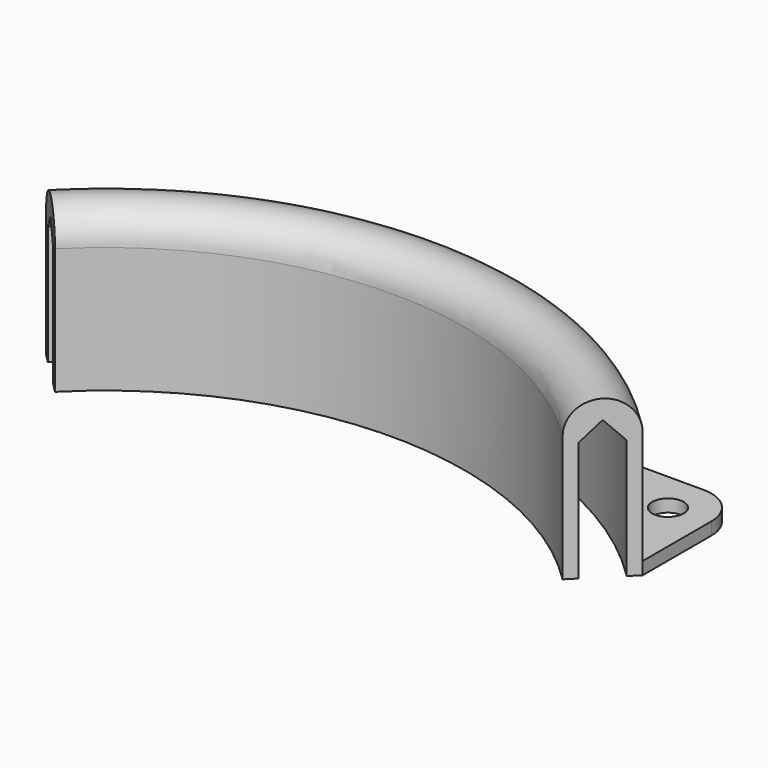
from build123d import *

# Parameters (mm, degrees)
F1_ANGLE_BACK = 45
F1_ANGLE      = 90
F2_R          = 2.5
F3_DEPTH      = 2
F4_R          = 6


with BuildPart() as f1:
    # F0 (on Right) → F1 (revolve)
    with BuildSketch(Plane.YZ, mode=Mode.PRIVATE) as f1_sk:
        with BuildLine():
            Line((65, 19), (65, 0))
            Line((65, 0), (67, 0))
            Line((67, 0), (67, 20))
            ThreePointArc((67, 20), (62, 25), (57, 20))
            Line((57, 20), (57, 0))
            Line((57, 0), (59, 0))
            Line((59, 0), (59, 19))
            Line((59, 19), (62, 22))
            Line((62, 22), (65, 19))
        make_face()
    revolve(f1_sk.sketch.rotate(Axis((0, 0, 11), (0, 0, 1)), -F1_ANGLE_BACK), axis=Axis((0, 0, 11), (0, 0, 1)), revolution_arc=F1_ANGLE)

    # F2 (on face) → F3 (join)
    with BuildSketch(Plane(origin=(0, 0, 0), x_dir=(1, 0, 0), z_dir=(0, 0, -1))):
        with BuildLine():
            ThreePointArc((0, -67), (-25.6397899685, -61.8999286783), (-47.3761543395, -47.3761543395))
            Line((-47.3761543395, -47.3761543395), (-47.3761543395, -67))
            Line((-47.3761543395, -67), (0, -67))
        make_face()
        with Locations((-40.8761543395, -60.5)):
            Circle(F2_R, mode=Mode.SUBTRACT)
        with BuildLine():
            ThreePointArc((47.3761543395, -47.3761543395), (25.6397899685, -61.8999286783), (0, -67))
            Line((0, -67), (47.3761543395, -67))
            Line((47.3761543395, -67), (47.3761543395, -47.3761543395))
        make_face()
        with Locations((40.8761543395, -60.5)):
            Circle(F2_R, mode=Mode.SUBTRACT)
    extrude(amount=-F3_DEPTH)

    # F4
    f4_edges = [f1.edges().sort_by_distance(p)[0] for p in [
        (-47.376154, 67, 1),
        (47.376154, 67, 1),
    ]]
    fillet(f4_edges, radius=F4_R)


solid = f1.part
